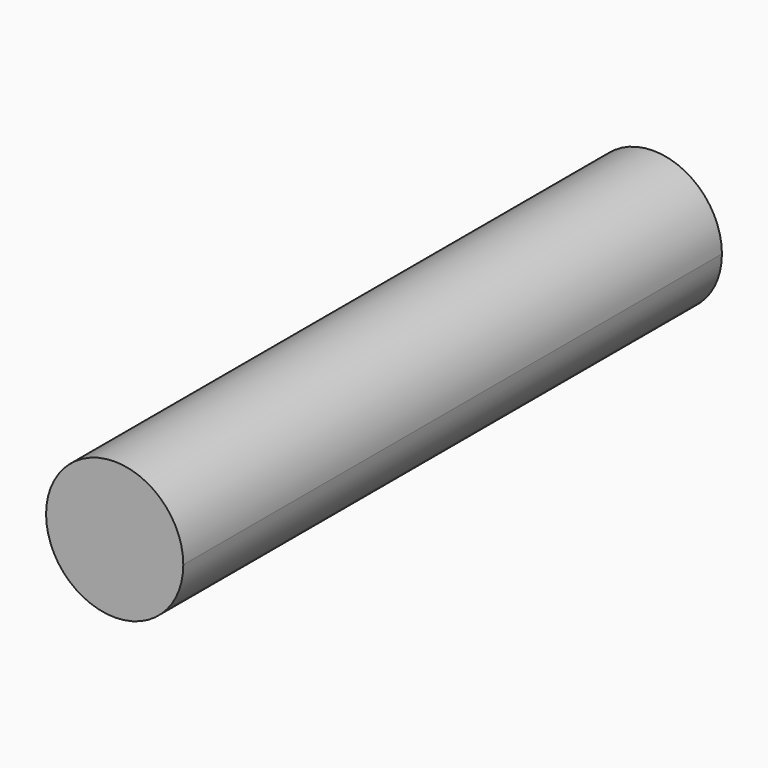
from build123d import *

# Parameters (mm, degrees)
F1_DEPTH = 15.8


with BuildPart() as f1:
    # F0 (on Front) → F1 (new body)
    with BuildSketch(Plane.XZ):
        with BuildLine():
            ThreePointArc((-23.719811, 27.774952), (-23.437046, 28.261179), (-23.338794, 28.815001))
            ThreePointArc((-23.338794, 28.815001), (-24.948794, 30.425001), (-26.558794, 28.815001))
            ThreePointArc((-26.558794, 28.815001), (-25.502616, 27.303253), (-23.719811, 27.774952))
        make_face()
    extrude(amount=F1_DEPTH)


solid = f1.part
